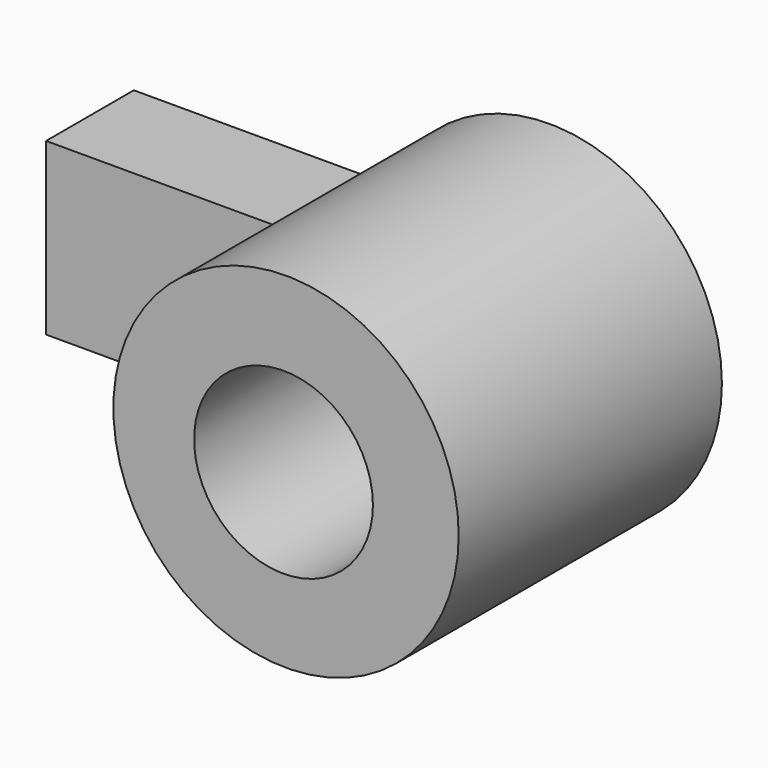
from build123d import *

# Parameters (mm, degrees)
F0_R      = 39.988353
F1_DEPTH  = 25.4
F1_FACE_R = 39.988353
F2_DEPTH  = 50.8
F3_R      = 20.704391
F4_DEPTH  = 76.201
F5_W      = 66.406839
F5_H      = 39.493055
F6_DEPTH  = 25.4


with BuildPart() as f1:
    # F0 (on Front) → F1 (new body)
    with BuildSketch(Plane.XZ):
        with Locations((40.370677, 4.534387)):
            Circle(F0_R)
    extrude(amount=F1_DEPTH)

    # F1_face (on face) → F2 (join)
    with BuildSketch(Plane(origin=(40.370677, -25.4, 4.534387), x_dir=(1, 0, 0), z_dir=(0, -1, 0))):
        Circle(F1_FACE_R)
    extrude(amount=F2_DEPTH)

    # F3 (on face) → F4 (cut, through all)
    with BuildSketch(Plane.XZ.offset(76.2)):
        with Locations((39.785597, 4.241847)):
            Circle(F3_R)
    extrude(amount=-F4_DEPTH, mode=Mode.SUBTRACT)

    # F5 (on Front) → F6 (join)
    with BuildSketch(Plane.XZ):
        with Locations((-22.640213, 0.292541)):
            Rectangle(F5_W, F5_H)
    extrude(amount=F6_DEPTH)


solid = f1.part
